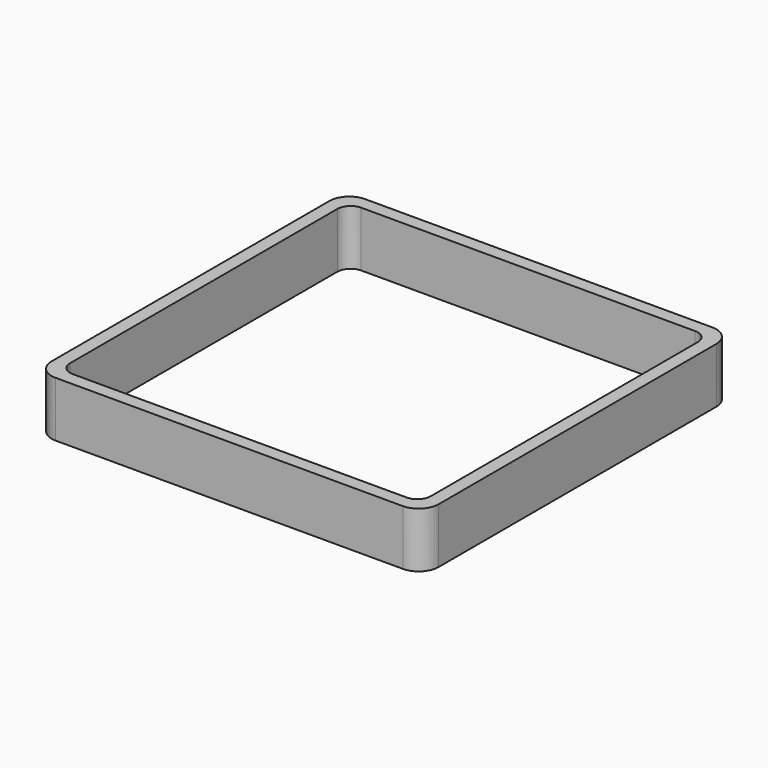
from build123d import *

# Parameters (mm, degrees)
EXTRUDE_DEPTH = 50


with BuildPart() as part:
    # Sketch → Extrude (new body)
    with BuildSketch(Plane.XY):
        with BuildLine():
            Line((-157, 175), (157, 175))
            ThreePointArc((175, 157), (169.727922, 169.727922), (157, 175))
            Line((175, 157), (175, -157))
            ThreePointArc((157, -175), (169.727922, -169.727922), (175, -157))
            Line((157, -175), (-157, -175))
            ThreePointArc((-175, -157), (-169.727922, -169.727922), (-157, -175))
            Line((-175, -157), (-175, 157))
            ThreePointArc((-157, 175), (-169.727922, 169.727922), (-175, 157))
        make_face()
        with BuildLine():
            Line((-151, 163), (151, 163))
            ThreePointArc((163, 151), (159.485281, 159.485281), (151, 163))
            Line((163, 151), (163, -151))
            ThreePointArc((151, -163), (159.485281, -159.485281), (163, -151))
            Line((151, -163), (-151, -163))
            ThreePointArc((-163, -151), (-159.485281, -159.485281), (-151, -163))
            Line((-163, -151), (-163, 151))
            ThreePointArc((-151, 163), (-159.485281, 159.485281), (-163, 151))
        make_face(mode=Mode.SUBTRACT)
    extrude(amount=EXTRUDE_DEPTH)


solid = part.part
